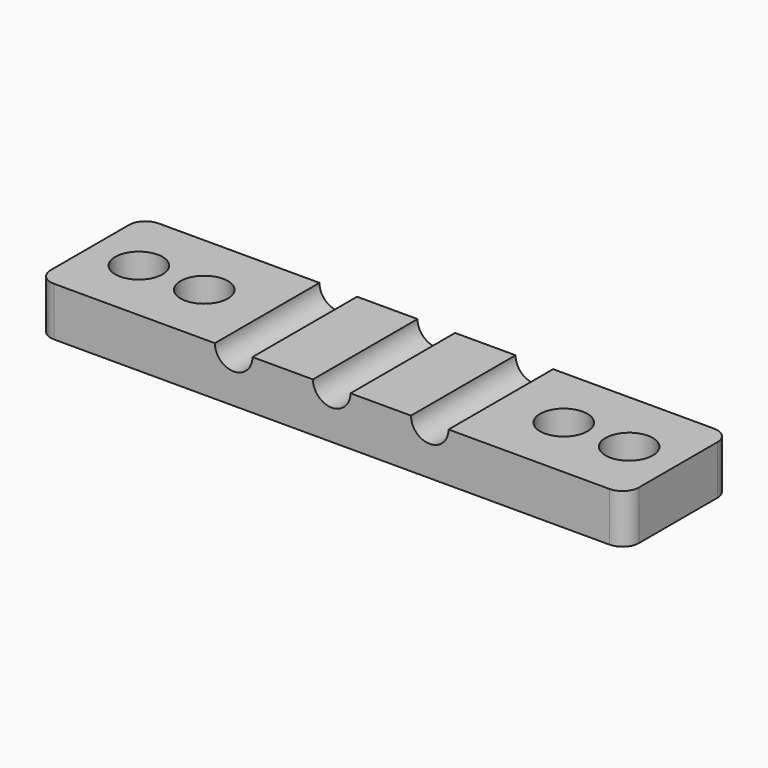
from build123d import *

# Parameters (mm, degrees)
F0_W     = 6
F0_H     = 8
F0_W_2   = 24
F1_DEPTH = 3
F2_D     = 2.9
F4_D     = 2.3
F5_R     = 1


with BuildPart() as f1:
    # F0 (on Top) → F1 (new body)
    with BuildSketch(Plane.XY):
        Rectangle(F0_W, F0_H)
        with Locations((15, 0)):
            Rectangle(F0_W_2, F0_H)
        with Locations((30, 0)):
            Rectangle(F0_W, F0_H)
    extrude(amount=-F1_DEPTH)

    # F2 (through all)
    with Locations(Plane.XY):
        with Locations((0, 0), (4, 0), (26, 0), (30, 0)):
            Hole(F2_D / 2)

    # F4 (through all)
    with Locations(Plane.XZ.offset(4)):
        with Locations((9, 0), (21, 0), (15, 0)):
            Hole(F4_D / 2)

    # F5
    f5_edges = [f1.edges().sort_by_distance(p)[0] for p in [
        (-3, -4, -1.5),
        (33, -4, -1.5),
        (33, 4, -1.5),
        (-3, 4, -1.5),
    ]]
    fillet(f5_edges, radius=F5_R)


solid = f1.part
